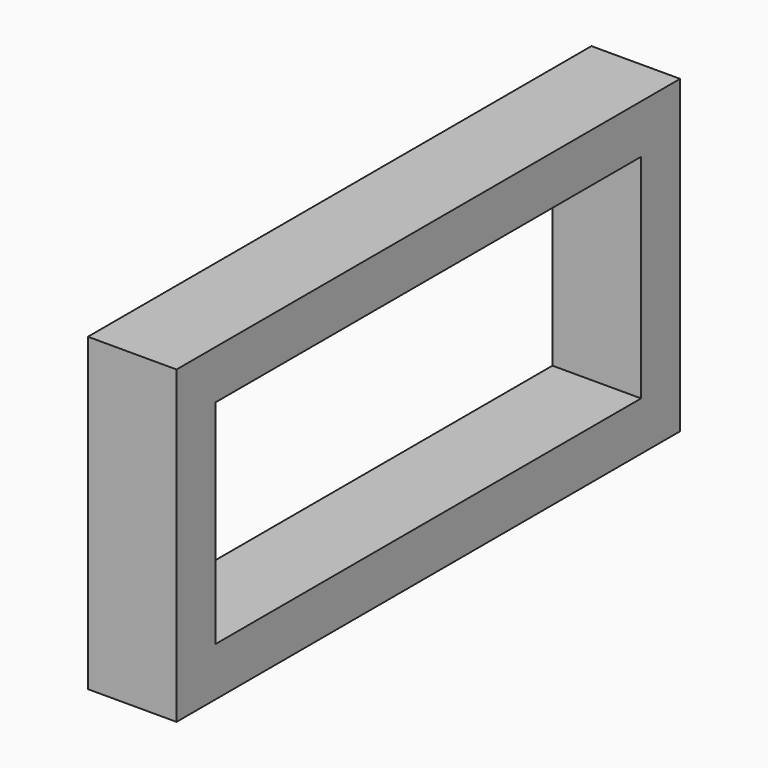
from build123d import *

# Parameters (mm, degrees)
BOX058_W     = 4
BOX058_H     = 24
BOX058_DEPTH = 9.6
BOX057_W     = 4
BOX057_H     = 28.4
BOX057_DEPTH = 14


with BuildPart() as cube050:
    # Box058 → Box058 (new body)
    with BuildSketch(Plane(origin=(0, 2.2, 2.2), x_dir=(1, 0, 0), z_dir=(0, 0, 1))):
        with Locations((2, 12)):
            Rectangle(BOX058_W, BOX058_H)
    extrude(amount=BOX058_DEPTH)


with BuildPart() as obj1:
    # Box057 → Box057 (new body)
    with BuildSketch(Plane.XY):
        with Locations((2, 14.2)):
            Rectangle(BOX057_W, BOX057_H)
    extrude(amount=BOX057_DEPTH)

    # Cut053: cut Cube050
    add(cube050.part, mode=Mode.SUBTRACT)


with BuildPart() as obj1_1:
    # Cut053 placement: moved
    add(obj1.part.moved(Location((-4, 40.8, 32))))


solid = obj1_1.part
